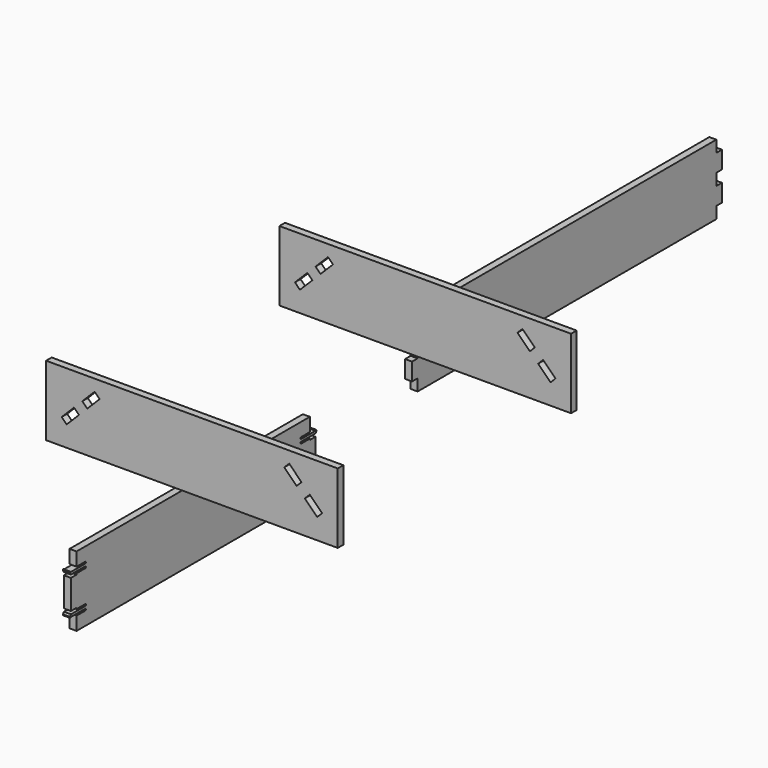
from build123d import *

# Parameters (mm, degrees)
F2_W     = 250
F2_H     = 60
F3_DEPTH = 6
F6_DEPTH = 6
F8_DEPTH = 6


with BuildPart() as f3:
    # F2 (on Front) → F3 (new body)
    with BuildSketch(Plane.XZ):
        with Locations((125, 30)):
            Rectangle(F2_W, F2_H)
        Polygon((28.2066017178, 28.2066017178), (17.6, 17.6), (13.3573593129, 21.8426406871), (23.9639610307, 32.4492424049), align=None, mode=Mode.SUBTRACT)
        Polygon((232.4, 17.6), (221.7933982822, 28.2066017178), (226.0360389693, 32.4492424049), (236.6426406871, 21.8426406871), align=None, mode=Mode.SUBTRACT)
        Polygon((41.6416305603, 50.1269119346), (45.8842712475, 45.8842712475), (35.2776695297, 35.2776695297), (31.0350288425, 39.5203102168), align=None, mode=Mode.SUBTRACT)
        Polygon((218.9649711575, 39.5203102168), (214.7223304703, 35.2776695297), (204.1157287525, 45.8842712475), (208.3583694397, 50.1269119346), align=None, mode=Mode.SUBTRACT)
    extrude(amount=F3_DEPTH)


with BuildPart() as f4_1:
    # F4: copy of F3
    add(f3.part.moved(Location((0, 250, 0))))


with BuildPart() as f6:
    # F5 (on Right) → F6 (new body)
    with BuildSketch(Plane.YZ):
        with BuildLine():
            Line((269.1403478384, -92.2160172462), (19.1403478384, -92.2160172462))
            Line((19.1403478384, -92.2160172462), (19.1403478384, -103.7240941421))
            Line((19.1403478384, -103.7240941421), (28.3785607671, -103.7240941421))
            ThreePointArc((28.3785607671, -103.7240941421), (29.1285607671, -104.4740941421), (28.3785607671, -105.2240941421))
            Line((28.3785607671, -105.2240941421), (19.1403478384, -105.2240941421))
            Line((19.1403478384, -105.2240941421), (13.1403478384, -105.2240941421))
            Line((13.1403478384, -105.2240941421), (12.6621701435, -104.7459164472))
            ThreePointArc((12.6621701435, -104.7459164472), (12.477526573, -104.6920640464), (12.3328563425, -104.818807305))
            Line((12.3328563425, -104.818807305), (12.0194143502, -105.6781820885))
            ThreePointArc((12.0194143502, -105.6781820885), (12.0099947442, -105.7793921623), (12.051541867, -105.8721609318))
            Line((12.051541867, -105.8721609318), (13.1403478384, -107.2240941421))
            Line((13.1403478384, -107.2240941421), (19.1403478384, -107.2240941421))
            Line((19.1403478384, -107.2240941421), (28.3785607671, -107.2240941421))
            ThreePointArc((28.3785607671, -107.2240941421), (29.1285607671, -107.9740941421), (28.3785607671, -108.7240941421))
            Line((28.3785607671, -108.7240941421), (19.1403478384, -108.7240941421))
            Line((19.1403478384, -108.7240941421), (19.1403478384, -109.7240941421))
            Line((19.1403478384, -109.7240941421), (13.1403478384, -109.7240941421))
            Line((13.1403478384, -109.7240941421), (13.1403478384, -122.2240941421))
            Line((13.1403478384, -122.2240941421), (13.1403478384, -134.7240941421))
            Line((13.1403478384, -134.7240941421), (19.1403478384, -134.7240941421))
            Line((19.1403478384, -134.7240941421), (19.1403478384, -135.7079403504))
            Line((19.1403478384, -135.7079403504), (28.3785607671, -135.7079403504))
            ThreePointArc((28.3785607671, -135.7079403504), (29.1285607671, -136.4579403504), (28.3785607671, -137.2079403504))
            Line((28.3785607671, -137.2079403504), (19.1403478384, -137.2079403504))
            Line((19.1403478384, -137.2079403504), (13.1403478384, -137.2079403504))
            Line((13.1403478384, -137.2079403504), (12.051541867, -138.5598735607))
            ThreePointArc((12.051541867, -138.5598735607), (12.0099947442, -138.6526423302), (12.0194143502, -138.753852404))
            Line((12.0194143502, -138.753852404), (12.3328563425, -139.6132271875))
            ThreePointArc((12.3328563425, -139.6132271875), (12.477526573, -139.7399704461), (12.6621701435, -139.6861180453))
            Line((12.6621701435, -139.6861180453), (13.1403478384, -139.2079403504))
            Line((13.1403478384, -139.2079403504), (19.1403478384, -139.2079403504))
            Line((19.1403478384, -139.2079403504), (28.3785607671, -139.2079403504))
            ThreePointArc((28.3785607671, -139.2079403504), (29.1285607671, -139.9579403504), (28.3785607671, -140.7079403504))
            Line((28.3785607671, -140.7079403504), (19.1403478384, -140.7079403504))
            Line((19.1403478384, -140.7079403504), (19.1403478384, -152.2160172462))
            Line((19.1403478384, -152.2160172462), (269.1403478384, -152.2160172462))
            Line((269.1403478384, -152.2160172462), (269.1403478384, -140.7079403504))
            Line((269.1403478384, -140.7079403504), (259.9021349097, -140.7079403504))
            ThreePointArc((259.9021349097, -140.7079403504), (259.1521349097, -139.9579403504), (259.9021349097, -139.2079403504))
            Line((259.9021349097, -139.2079403504), (269.1403478384, -139.2079403504))
            Line((269.1403478384, -139.2079403504), (275.1403478384, -139.2079403504))
            Line((275.1403478384, -139.2079403504), (275.6185255333, -139.6861180453))
            ThreePointArc((275.6185255333, -139.6861180453), (275.8031691038, -139.7399704461), (275.9478393343, -139.6132271875))
            Line((275.9478393343, -139.6132271875), (276.2612813266, -138.753852404))
            ThreePointArc((276.2612813266, -138.753852404), (276.2707009326, -138.6526423302), (276.2291538098, -138.5598735607))
            Line((276.2291538098, -138.5598735607), (275.1403478384, -137.2079403504))
            Line((275.1403478384, -137.2079403504), (269.1403478384, -137.2079403504))
            Line((269.1403478384, -137.2079403504), (259.9021349097, -137.2079403504))
            ThreePointArc((259.9021349097, -137.2079403504), (259.1521349097, -136.4579403504), (259.9021349097, -135.7079403504))
            Line((259.9021349097, -135.7079403504), (269.1403478384, -135.7079403504))
            Line((269.1403478384, -135.7079403504), (269.1403478384, -134.7240941421))
            Line((269.1403478384, -134.7240941421), (275.1403478384, -134.7240941421))
            Line((275.1403478384, -134.7240941421), (275.1403478384, -122.2240941421))
            Line((275.1403478384, -122.2240941421), (275.1403478384, -109.7240941421))
            Line((275.1403478384, -109.7240941421), (269.1403478384, -109.7240941421))
            Line((269.1403478384, -109.7240941421), (269.1403478384, -108.7240941421))
            Line((269.1403478384, -108.7240941421), (259.9021349097, -108.7240941421))
            ThreePointArc((259.9021349097, -108.7240941421), (259.1521349097, -107.9740941421), (259.9021349097, -107.2240941421))
            Line((259.9021349097, -107.2240941421), (269.1403478384, -107.2240941421))
            Line((269.1403478384, -107.2240941421), (275.1403478384, -107.2240941421))
            Line((275.1403478384, -107.2240941421), (276.2291538098, -105.8721609318))
            ThreePointArc((276.2291538098, -105.8721609318), (276.2707009326, -105.7793921623), (276.2612813266, -105.6781820885))
            Line((276.2612813266, -105.6781820885), (275.9478393343, -104.818807305))
            ThreePointArc((275.9478393343, -104.818807305), (275.8031691038, -104.6920640464), (275.6185255333, -104.7459164472))
            Line((275.6185255333, -104.7459164472), (275.1403478384, -105.2240941421))
            Line((275.1403478384, -105.2240941421), (269.1403478384, -105.2240941421))
            Line((269.1403478384, -105.2240941421), (259.9021349097, -105.2240941421))
            ThreePointArc((259.9021349097, -105.2240941421), (259.1521349097, -104.4740941421), (259.9021349097, -103.7240941421))
            Line((259.9021349097, -103.7240941421), (269.1403478384, -103.7240941421))
            Line((269.1403478384, -103.7240941421), (269.1403478384, -92.2160172462))
        make_face()
    extrude(amount=F6_DEPTH)


with BuildPart() as f8:
    # F7 (on Right) → F8 (new body)
    with BuildSketch(Plane.YZ):
        Polygon((378.656932354, -95.1163543761), (378.656932354, -110.1163543761), (384.656932354, -110.1163543761), (384.656932354, -120.1163543761), (544.656932354, -120.1163543761), (704.656932354, -120.1163543761), (704.656932354, -110.1163543761), (710.656932354, -110.1163543761), (710.656932354, -95.1163543761), (704.656932354, -95.1163543761), (704.656932354, -90.1163543761), (704.656932354, -85.1163543761), (710.656932354, -85.1163543761), (710.656932354, -70.1163543761), (704.656932354, -70.1163543761), (704.656932354, -60.1163543761), (544.656932354, -60.1163543761), (384.656932354, -60.1163543761), (384.656932354, -70.1163543761), (378.656932354, -70.1163543761), (378.656932354, -85.1163543761), (384.656932354, -85.1163543761), (384.656932354, -90.1163543761), (384.656932354, -95.1163543761), align=None)
    extrude(amount=F8_DEPTH)


solid = Compound([f3.part, f4_1.part, f6.part, f8.part])
